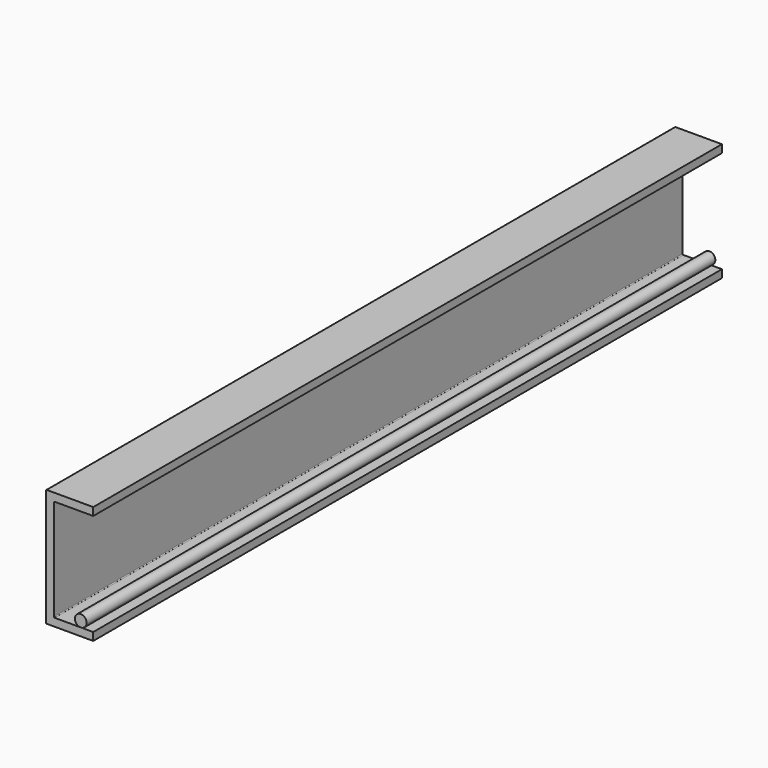
from build123d import *

# Parameters (mm, degrees)
F1_DEPTH = 500
F2_R     = 7.5
F3_DEPTH = 1000


with BuildPart() as f1:
    # F0 (on Front) → F1 (new body, symmetric)
    with BuildSketch(Plane.XZ):
        with BuildLine():
            Line((0, 149), (0, 1))
            ThreePointArc((0, 1), (0.292893, 0.292893), (1, 0))
            Line((1, 0), (60, 0))
            Line((60, 0), (60, 10))
            Line((60, 10), (11, 10))
            ThreePointArc((11, 10), (10.292893, 10.292893), (10, 11))
            Line((10, 11), (10, 139))
            ThreePointArc((10, 139), (10.292893, 139.707107), (11, 140))
            Line((11, 140), (60, 140))
            Line((60, 140), (60, 150))
            Line((60, 150), (1, 150))
            ThreePointArc((1, 150), (0.292893, 149.707107), (0, 149))
        make_face()
    extrude(amount=F1_DEPTH, both=True)


with BuildPart() as f3:
    # F2 (on face) → F3 (new body)
    with BuildSketch(Plane.XZ.offset(500)):
        with Locations((44.134613, 17.5)):
            Circle(F2_R)
    extrude(amount=-F3_DEPTH)


solid = Compound([f1.part, f3.part])
